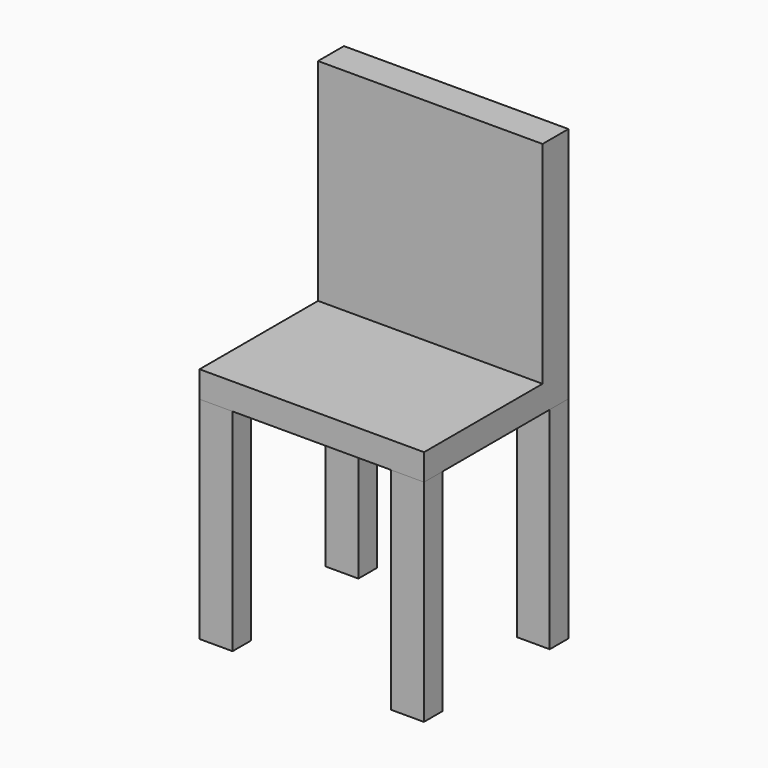
from build123d import *

# Parameters (mm, degrees)
F0_W     = 63.5
F0_H     = 44.634058
F1_DEPTH = 406.4
F2_W     = 432.138145
F2_H     = 347.297758
F3_DEPTH = 50.8
F4_W     = 432.138145
F4_H     = 62.294394
F5_DEPTH = 406.4


with BuildPart() as f1:
    # F0 (on Top) → F1 (new body)
    with BuildSketch(Plane.XY):
        with Locations((31.75, 22.317029)):
            Rectangle(F0_W, F0_H)
        with Locations((400.05, 22.317029)):
            Rectangle(F0_W, F0_H)
        with Locations((31.75, 325.083428)):
            Rectangle(F0_W, F0_H)
        with Locations((400.05, 325.083428)):
            Rectangle(F0_W, F0_H)
    extrude(amount=F1_DEPTH)


with BuildPart() as f3:
    # F2 (on face) → F3 (new body)
    with BuildSketch(Plane.XY.offset(406.4)):
        with Locations((216.069073, 173.648879)):
            Rectangle(F2_W, F2_H)
    extrude(amount=F3_DEPTH)

    # F4 (on face) → F5 (join)
    with BuildSketch(Plane.XY.offset(457.2)):
        with Locations((216.069073, 316.150561)):
            Rectangle(F4_W, F4_H)
    extrude(amount=F5_DEPTH)


solid = Compound([f1.part, f3.part])
